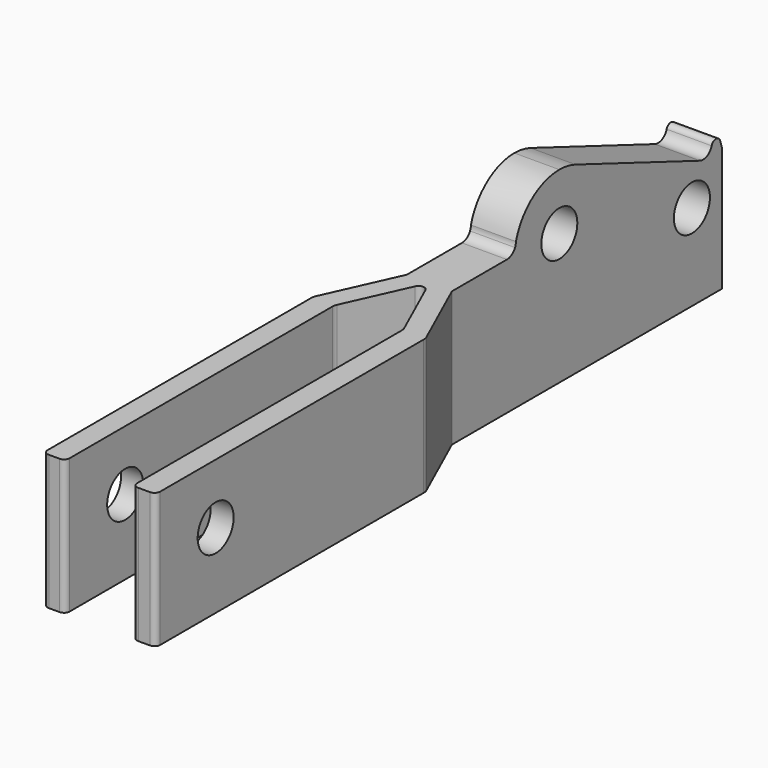
from build123d import *

# Parameters (mm, degrees)
F1_DEPTH = 25
F2_R     = 3
F3_DEPTH = 15


with BuildPart() as f1:
    # F0 (on Top) → F1 (new body)
    with BuildSketch(Plane.XY):
        with BuildLine():
            Line((5.183941, -22.5), (6.75, -22.5))
            ThreePointArc((6.75, -22.5), (7.28033, -22.28033), (7.5, -21.75))
            Line((7.5, -21.75), (7.5, 22.178048))
            ThreePointArc((7.5, 22.178048), (7.466599, 22.492831), (7.367882, 22.793595))
            Line((7.367882, 22.793595), (3, 32.5))
            Line((3, 32.5), (3, 77.5))
            Line((3, 77.5), (-3, 77.5))
            Line((-3, 77.5), (-3, 32.5))
            Line((-3, 32.5), (-7.367882, 22.793595))
            ThreePointArc((-7.367882, 22.793595), (-7.466599, 22.492831), (-7.5, 22.178048))
            Line((-7.5, 22.178048), (-7.5, -21.75))
            ThreePointArc((-7.5, -21.75), (-7.28033, -22.28033), (-6.75, -22.5))
            Line((-6.75, -22.5), (-5.316059, -22.5))
            ThreePointArc((-5.316059, -22.5), (-4.785729, -22.28033), (-4.566059, -21.75))
            Line((-4.566059, -21.75), (-4.566059, 22.03125))
            ThreePointArc((-4.566059, 22.03125), (-4.532658, 22.346033), (-4.433941, 22.646797))
            Line((-4.433941, 22.646797), (-0.683941, 30.980131))
            ThreePointArc((-0.683941, 30.980131), (0, 31.422357), (0.683941, 30.980131))
            Line((0.683941, 30.980131), (4.301823, 22.940392))
            ThreePointArc((4.301823, 22.940392), (4.40054, 22.639628), (4.433941, 22.324845))
            Line((4.433941, 22.324845), (4.433941, -21.75))
            ThreePointArc((4.433941, -21.75), (4.653611, -22.28033), (5.183941, -22.5))
        make_face()
    extrude(amount=F1_DEPTH)

    # F2 (on face) → F3 (cut)
    with BuildSketch(Plane.YZ.offset(7.5)):
        with BuildLine():
            Line((77.5, 25), (50.400115, 25))
            ThreePointArc((50.400115, 25), (51.768982, 24.874022), (53.091863, 24.500321))
            Line((53.091863, 24.500321), (73.81722, 16.531051))
            ThreePointArc((73.81722, 16.531051), (75.005426, 16.579196), (75.78519, 17.477038))
            ThreePointArc((75.78519, 17.477038), (76.5, 18), (77.21481, 17.477038))
            Line((77.21481, 17.477038), (77.5, 16.579144))
            Line((77.5, 16.579144), (77.5, 25))
        make_face()
        with BuildLine():
            Line((-21.75, 25), (-21.828302, 25))
            Line((-21.828302, 25), (-23.686077, 25))
            Line((-23.686077, 25), (-23.686077, 18))
            Line((-23.686077, 18), (-21.828302, 18))
            Line((-21.828302, 18), (41.671698, 18))
            ThreePointArc((41.671698, 18), (42.468668, 18.229237), (43.022045, 18.846881))
            ThreePointArc((43.022045, 18.846881), (43.089574, 19.175113), (43.171698, 19.5))
            ThreePointArc((43.171698, 19.5), (45.858639, 23.468668), (50.400115, 25))
            Line((50.400115, 25), (43.171698, 25))
            Line((43.171698, 25), (-21.75, 25))
        make_face()
        with BuildLine():
            ThreePointArc((43.022045, 18.846881), (43.133806, 19.164977), (43.171698, 19.5))
            ThreePointArc((43.171698, 19.5), (43.089574, 19.175113), (43.022045, 18.846881))
        make_face()
        with Locations((50.400115, 17.5)):
            Circle(F2_R)
        with Locations((-12.5, 10)):
            Circle(F2_R)
        with Locations((72.5, 11.531051)):
            Circle(F2_R)
    extrude(amount=-F3_DEPTH, mode=Mode.SUBTRACT)


solid = f1.part
